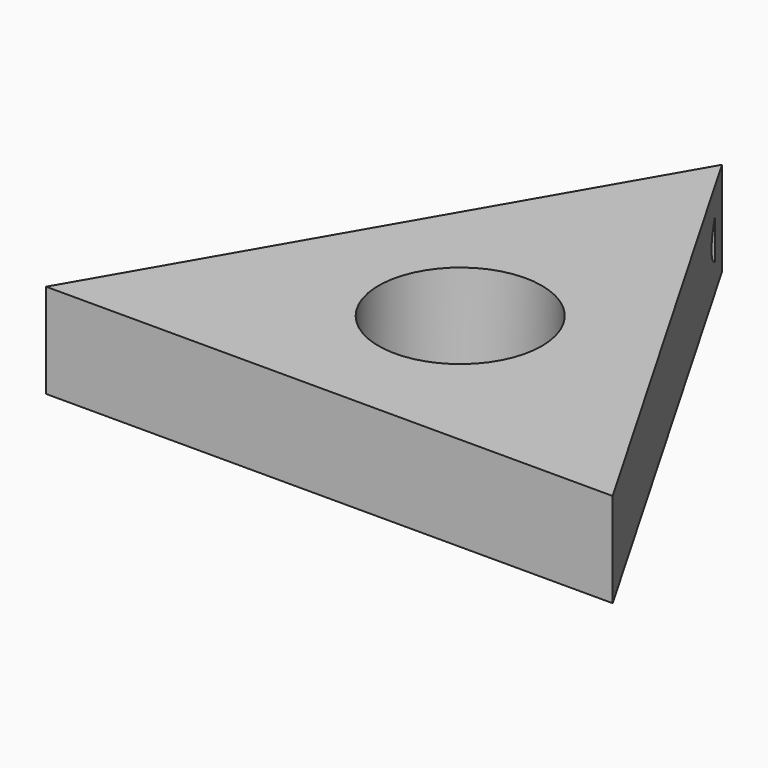
from build123d import *

# Parameters (mm, degrees)
F0_R     = 10.9855
F3_DEPTH = 6.35
F2_R     = 3.6195
F4_DEPTH = 19.558


with BuildPart() as f3:
    # F0 (on Top) → F3 (new body, symmetric)
    with BuildSketch(Plane.XY):
        Polygon((38.1, -21.997045), (0, 43.994091), (-38.1, -21.997045), align=None)
        Circle(F0_R, mode=Mode.SUBTRACT)
    extrude(amount=F3_DEPTH, both=True)

    # F2 (on offset) → F4 (cut)
    with BuildSketch(Plane.XZ.offset(-20.32)):
        Circle(F2_R)
    extrude(amount=-F4_DEPTH, mode=Mode.SUBTRACT)


solid = f3.part
